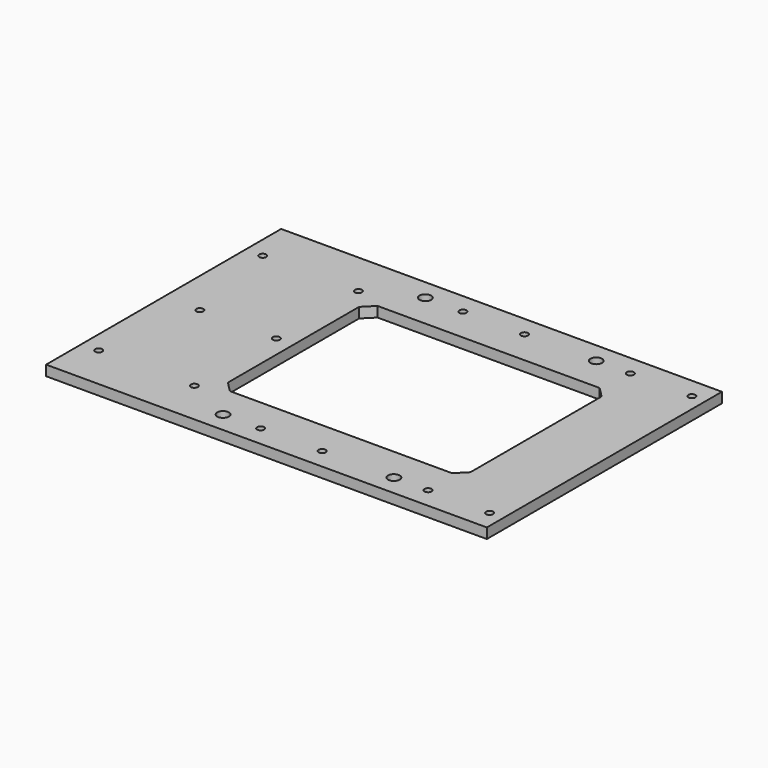
from build123d import *

# Parameters (mm, degrees)
F0_W     = 645
F0_H     = 430
F1_DEPTH = 15
F3_D     = 10.3
F4_R     = 8.5
F5_DEPTH = 15


with BuildPart() as f1:
    # F0 (on Top) → F1 (new body)
    with BuildSketch(Plane.XY):
        Rectangle(F0_W, F0_H)
        Polygon((-132.5, 120), (-117.5, 135), (207.5, 135), (222.5, 120), (222.5, -120), (207.5, -135), (-117.5, -135), (-132.5, -120), align=None, mode=Mode.SUBTRACT)
    extrude(amount=F1_DEPTH)

    # F3 (through all)
    with Locations(Plane(origin=(0, 0, 0), x_dir=(1, 0, 0), z_dir=(0, 0, -1))):
        with Locations((-297.5, -150), (-297.5, 150), (-157.5, -150), (-157.5, 0), (-157.5, 150), (-32.5, 185), (57.5, 185), (212.5, 185), (302.5, 185), (302.5, -185), (212.5, -185), (57.5, -185), (-32.5, -185), (-269.5, 0)):
            Hole(F3_D / 2)

    # F4 (on Top) → F5 (cut, through all)
    with BuildSketch(Plane.XY):
        with Locations((-87.5, 185)):
            Circle(F4_R)
        with Locations((162.5, 185)):
            Circle(F4_R)
        with Locations((162.5, -185)):
            Circle(F4_R)
        with Locations((-87.5, -185)):
            Circle(F4_R)
    extrude(amount=F5_DEPTH, mode=Mode.SUBTRACT)


solid = f1.part
